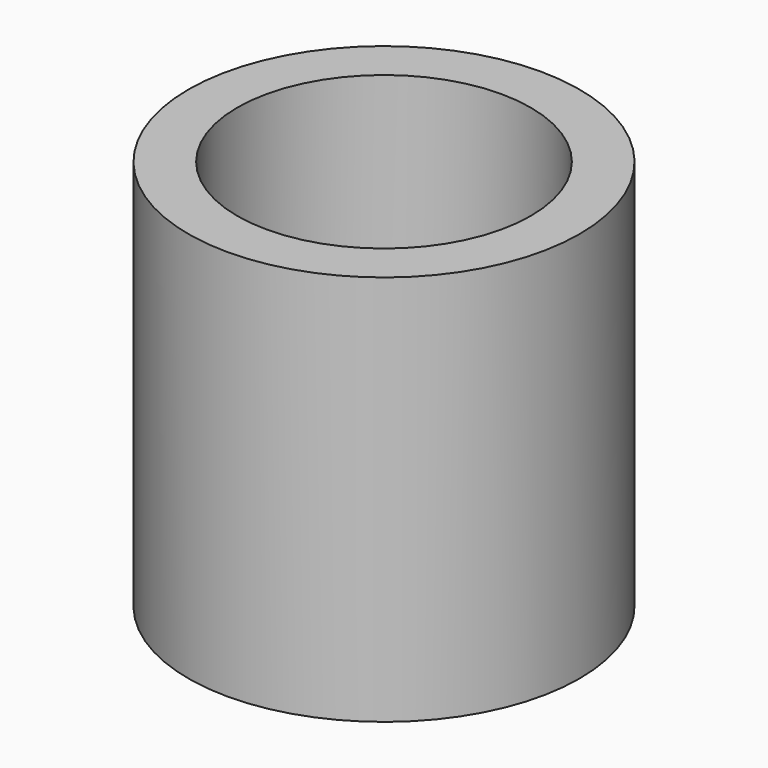
from build123d import *

# Parameters (mm, degrees)
CYLINDER007_R     = 1.5
CYLINDER007_DEPTH = 4
CYLINDER006_R     = 2
CYLINDER006_DEPTH = 4


with BuildPart() as cylinderouter003:
    # Cylinder007 → Cylinder007 (new body)
    with BuildSketch(Plane(origin=(8, -26, -23), x_dir=(1, 0, 0), z_dir=(0, 0, 1))):
        Circle(CYLINDER007_R)
    extrude(amount=CYLINDER007_DEPTH)


with BuildPart() as obj1:
    # Cylinder006 → Cylinder006 (new body)
    with BuildSketch(Plane(origin=(8, -26, -23), x_dir=(1, 0, 0), z_dir=(0, 0, 1))):
        Circle(CYLINDER006_R)
    extrude(amount=CYLINDER006_DEPTH)

    # Cut004: cut CylinderOuter003
    add(cylinderouter003.part, mode=Mode.SUBTRACT)


with BuildPart() as obj1_1:
    # Cut004 placement: moved
    add(obj1.part.moved(Location((21, 35, 0))))


solid = obj1_1.part
